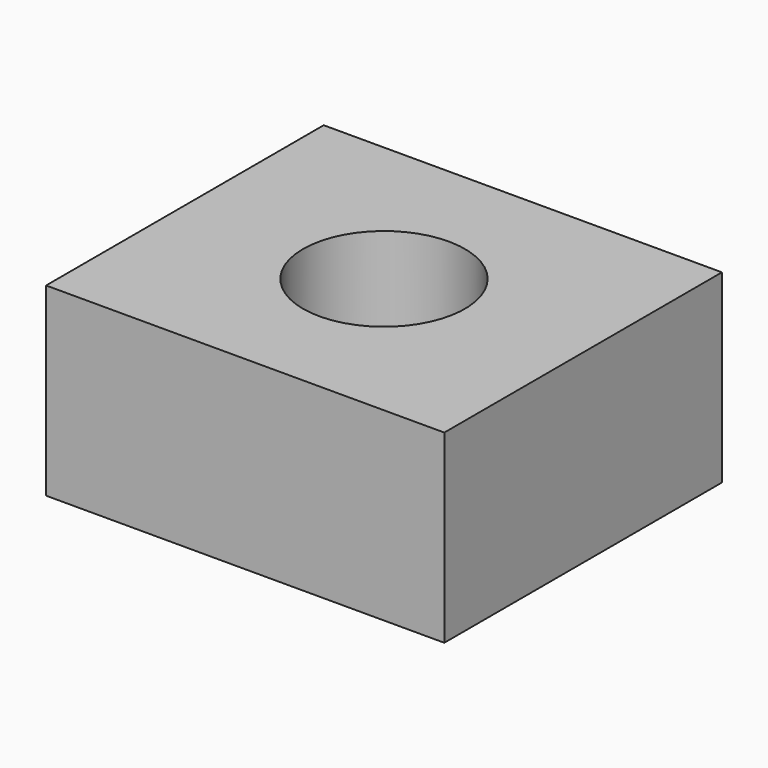
from build123d import *

# Parameters (mm, degrees)
F0_W     = 109.3037724495
F0_H     = 95.2528566122
F1_DEPTH = 50.8
F3_D     = 44.45


with BuildPart() as f1:
    # F0 (on Top) → F1 (new body)
    with BuildSketch(Plane.XY):
        Rectangle(F0_W, F0_H)
        Rectangle(F0_W, F0_H)
    extrude(amount=F1_DEPTH)

    # F3 (through all)
    with Locations(Plane.XY.offset(50.8)):
        with Locations((0, 0)):
            Hole(F3_D / 2)


solid = f1.part
